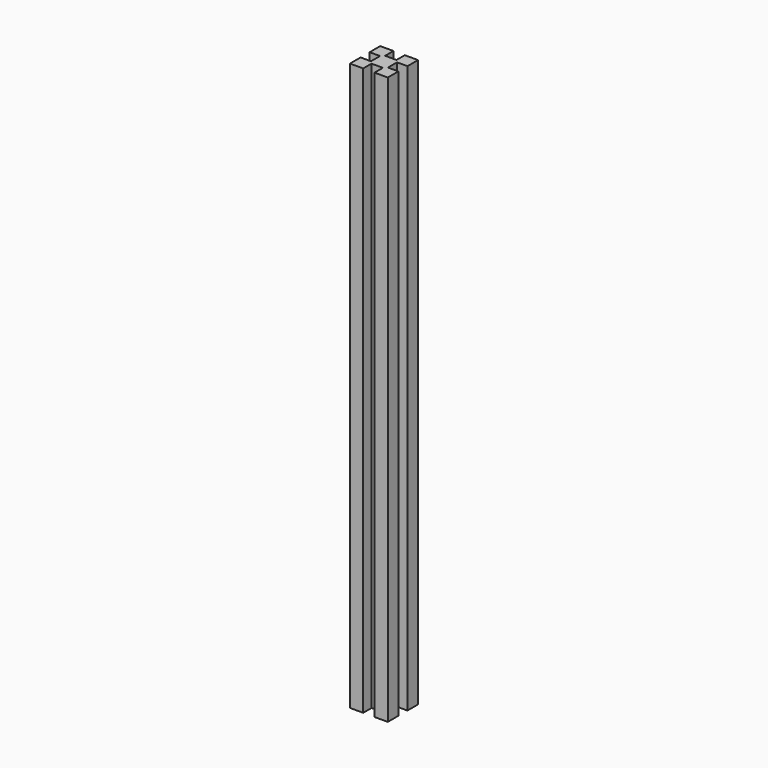
from build123d import *

# Parameters (mm, degrees)
F1_DEPTH = 300


with BuildPart() as f1:
    # F0 (on Top) → F1 (new body)
    with BuildSketch(Plane.XY):
        Polygon((-87.166744, -48.963183), (-87.166744, -55.963183), (-80.166744, -55.963183), (-80.166744, -50.463183), (-74.166744, -50.463183), (-74.166744, -55.963183), (-67.166744, -55.963183), (-67.166744, -48.963183), (-72.666744, -48.963183), (-72.666744, -42.963183), (-67.166744, -42.963183), (-67.166744, -35.963183), (-74.166744, -35.963183), (-74.166744, -41.463183), (-80.166744, -41.463183), (-80.166744, -35.963183), (-87.166744, -35.963183), (-87.166744, -42.963183), (-81.666744, -42.963183), (-81.666744, -48.963183), align=None)
    extrude(amount=F1_DEPTH)


solid = f1.part
